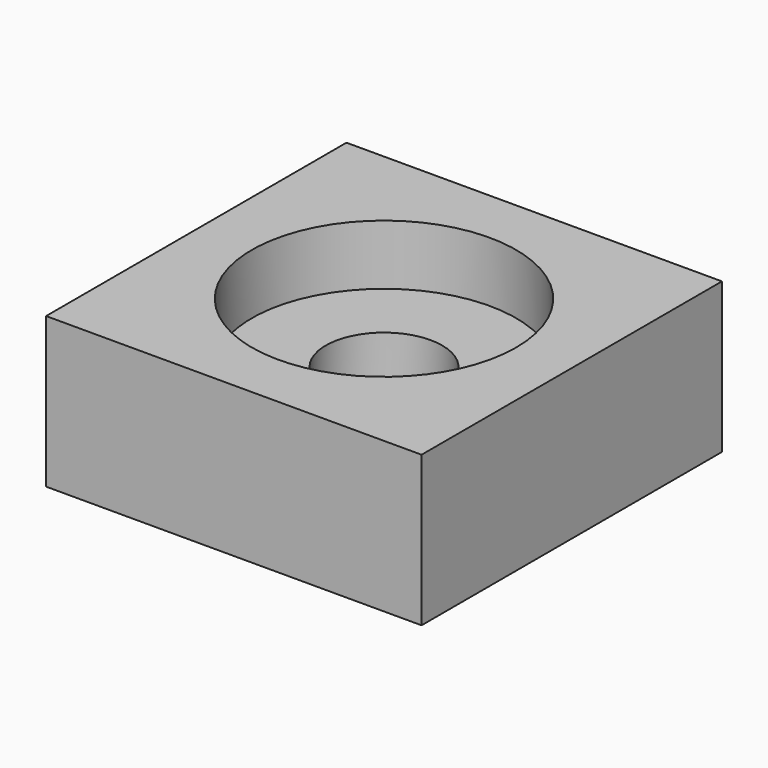
from build123d import *

# Parameters (mm, degrees)
F0_W     = 50
F0_H     = 50
F0_R     = 7.75
F1_DEPTH = 20
F2_R     = 17.6
F2_R_2   = 7.75
F3_DEPTH = 8
F4_R     = 12.5
F4_R_2   = 7.75
F5_DEPTH = 5


with BuildPart() as f1:
    # F0 (on Top) → F1 (new body)
    with BuildSketch(Plane.XY):
        Rectangle(F0_W, F0_H)
        Circle(F0_R, mode=Mode.SUBTRACT)
    extrude(amount=F1_DEPTH)

    # F2 (on face) → F3 (cut)
    with BuildSketch(Plane.XY.offset(20)):
        Circle(F2_R)
        Circle(F2_R_2, mode=Mode.SUBTRACT)
    extrude(amount=-F3_DEPTH, mode=Mode.SUBTRACT)

    # F4 (on face) → F5 (cut)
    with BuildSketch(Plane(origin=(0, 0, 0), x_dir=(1, 0, 0), z_dir=(0, 0, -1))):
        Circle(F4_R)
        Circle(F4_R_2, mode=Mode.SUBTRACT)
    extrude(amount=-F5_DEPTH, mode=Mode.SUBTRACT)


solid = f1.part
